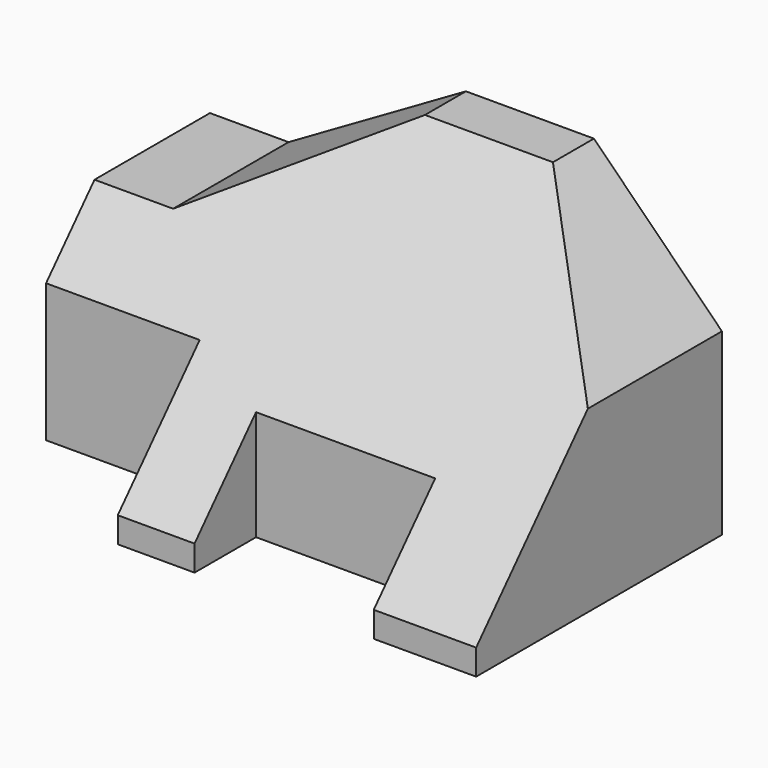
from build123d import *

# Parameters (mm, degrees)
F1_DEPTH = 50
F2_W     = 35
F2_H     = 15
F2_W_2   = 30
F2_H_2   = 20
F3_DEPTH = 60.001
F5_DEPTH = 60.001


with BuildPart() as f1:
    # F0 (on Right) → F1 (new body, symmetric)
    with BuildSketch(Plane.YZ):
        Polygon((0, 5), (0, 0), (60, 0), (60, 60), (50, 60), align=None)
    extrude(amount=F1_DEPTH, both=True)

    # F2 (on face) → F3 (cut, through all)
    with BuildSketch(Plane(origin=(0, 0, 0), x_dir=(1, 0, 0), z_dir=(0, 0, -1))):
        with Locations((12.5, -7.5)):
            Rectangle(F2_W, F2_H)
        with Locations((-35, -10)):
            Rectangle(F2_W_2, F2_H_2)
    extrude(amount=-F3_DEPTH, mode=Mode.SUBTRACT)

    # F4 (on face) → F5 (cut, through all)
    with BuildSketch(Plane(origin=(0, 60, 0), x_dir=(-1, 0, 0), z_dir=(0, 1, 0))):
        Polygon((50, 60), (0, 60), (34.641016, 40), (50, 40), align=None)
        Polygon((-25, 60), (-50, 60), (-50, 35), align=None)
    extrude(amount=-F5_DEPTH, mode=Mode.SUBTRACT)


solid = f1.part
